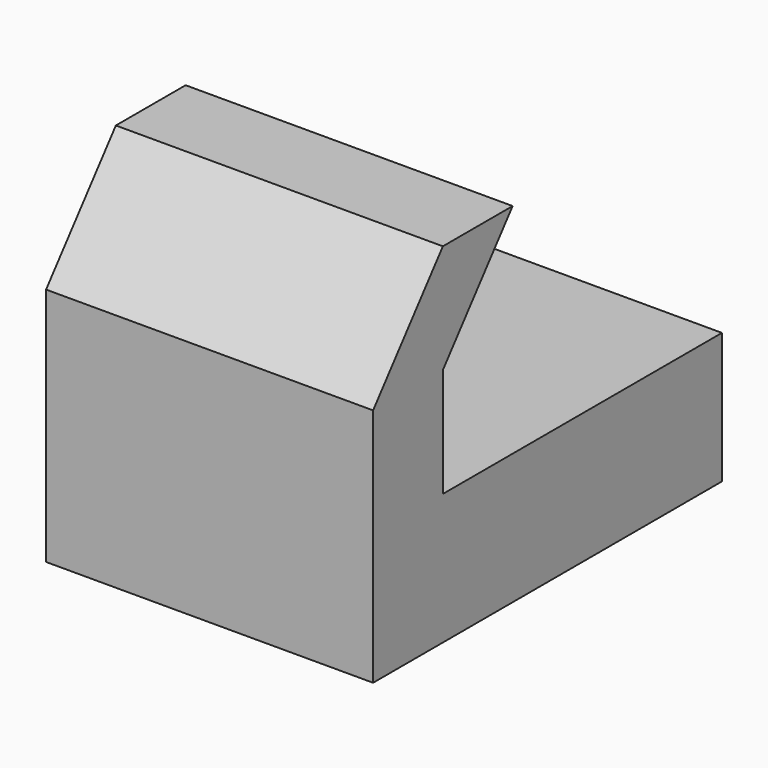
from build123d import *

# Parameters (mm, degrees)
F0_W      = 15
F0_H      = 20
F1_DEPTH  = 6
F3_DEPTH  = 3
F4_W      = 15
F4_H      = 4
F5_DEPTH  = 5
F5_FACE_W = 15
F5_FACE_H = 4
F7_W      = 15
F7_H      = 4


with BuildPart() as f1:
    # F0 (on Top) → F1 (new body)
    with BuildSketch(Plane.XY):
        with Locations((-7.5, 10)):
            Rectangle(F0_W, F0_H)
    extrude(amount=F1_DEPTH)

    # F2 (on face) → F3 (cut)
    with BuildSketch(Plane(origin=(0, 0, 0), x_dir=(1, 0, 0), z_dir=(0, 0, -1))):
        Polygon((-7.5, -15.25), (-4.75, -15.25), (-4.75, -4.75), (-7.5, -4.75), (-10.25, -4.75), (-10.25, -15.25), align=None)
    extrude(amount=-F3_DEPTH, mode=Mode.SUBTRACT)

    # F4 (on face) → F5 (join)
    with BuildSketch(Plane.XY.offset(6)):
        with Locations((-7.5, 2)):
            Rectangle(F4_W, F4_H)
    extrude(amount=F5_DEPTH)

    # F5_face (on face) → F8 section 0
    with BuildSketch(Plane(origin=(-7.5, 2, 11), x_dir=(1, 0, 0), z_dir=(0, 0, 1))):
        Rectangle(F5_FACE_W, F5_FACE_H)
    # F7 (on offset) → F8 section 1
    with BuildSketch(Plane.XY.offset(16)):
        with Locations((-7.5, 6)):
            Rectangle(F7_W, F7_H)
    loft()


solid = f1.part
